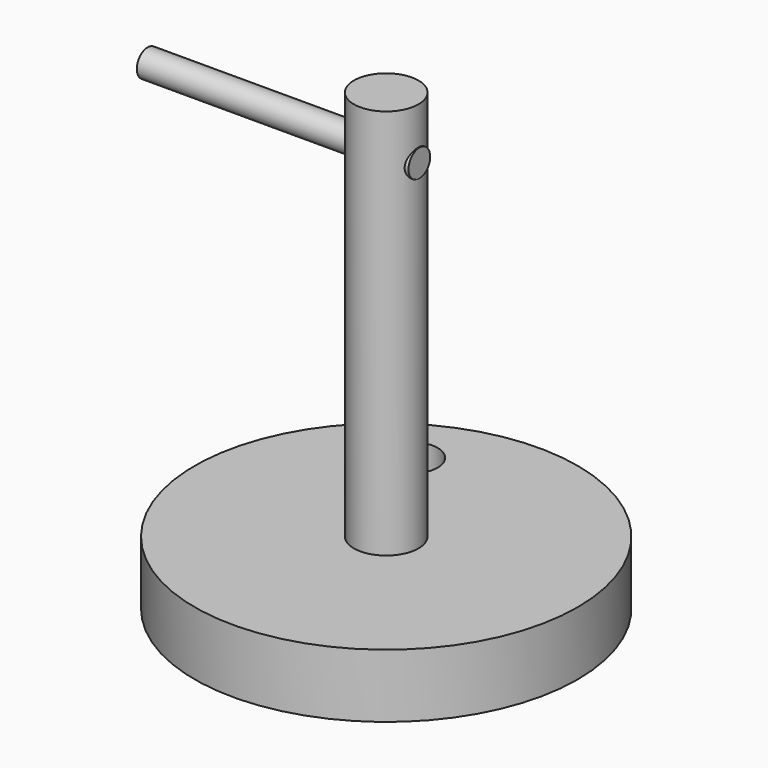
from build123d import *

# Parameters (mm, degrees)
F0_R     = 12.381892
F1_DEPTH = 174.244
F3_R     = 5.204488
F4_DEPTH = 104.14
F5_R     = 73.405341
F6_DEPTH = 24.384
F7_R     = 10.235871
F8_DEPTH = 25.4


with BuildPart() as f1:
    # F0 (on Top) → F1 (new body)
    with BuildSketch(Plane.XY):
        Circle(F0_R)
    extrude(amount=F1_DEPTH)

    # F3 (on offset) → F4 (join)
    with BuildSketch(Plane.YZ.offset(12.7)):
        with Locations((0, 154.521525)):
            Circle(F3_R)
    extrude(amount=-F4_DEPTH)

    # F5 (on Top) → F6 (join)
    with BuildSketch(Plane.XY):
        Circle(F5_R)
    extrude(amount=F6_DEPTH)

    # F7 (on Top) → F8 (cut)
    with BuildSketch(Plane.XY):
        with Locations((-26.076123, 44.477817)):
            Circle(F7_R)
    extrude(amount=F8_DEPTH, mode=Mode.SUBTRACT)


solid = f1.part
